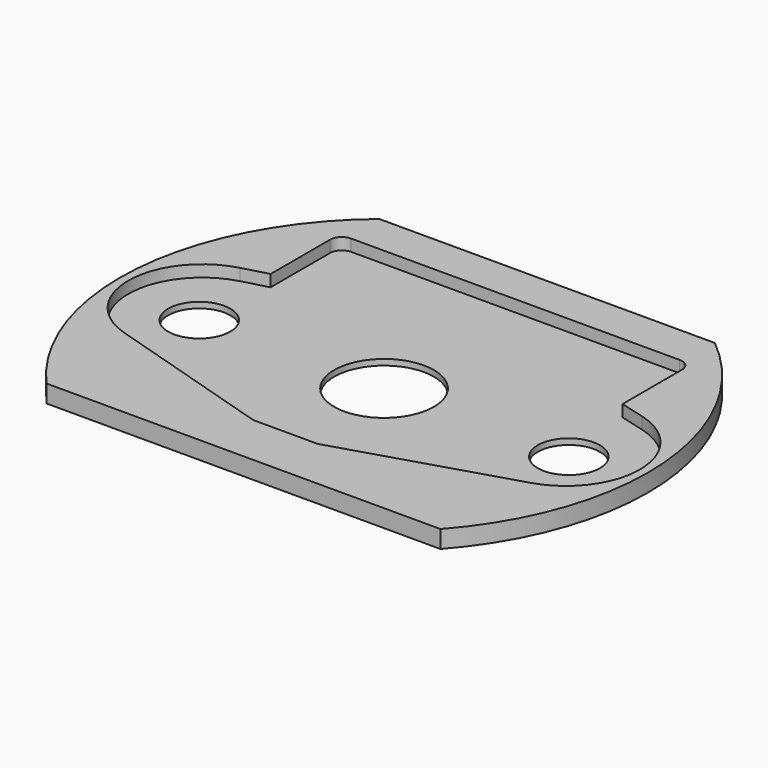
from build123d import *

# Parameters (mm, degrees)
SKETCH_R        = 22.5
PAD_DEPTH       = 1
SKETCH001_R     = 22.5
PAD001_DEPTH    = 0.5
SKETCH002_R     = 4.25
SKETCH002_R_2   = 2.65
POCKET_DEPTH    = 1.501
FILLET_R        = 1
FILLET001_R     = 1
POCKET001_DEPTH = 5


with BuildPart() as part:
    # Sketch → Pad (new body)
    with BuildSketch(Plane.XY):
        Circle(SKETCH_R)
        with BuildLine():
            ThreePointArc((17.347253, -6.023093), (21.799021, 0.111063), (17.133775, 6.08447))
            Line((15, 6.657422), (17.133775, 6.08447))
            Line((15, 14), (15, 6.657422))
            Line((-15, 14), (15, 14))
            Line((-15, 14), (-15, 6.657422))
            Line((-17.133775, 6.08447), (-15, 6.657422))
            ThreePointArc((-17.133775, 6.08447), (-21.799021, 0.111063), (-17.347253, -6.023093))
            Line((-17.347253, -6.023093), (-2.75, -10.5))
            Line((-2.75, -10.5), (2.75, -10.5))
            Line((17.347253, -6.023093), (2.75, -10.5))
        make_face(mode=Mode.SUBTRACT)
    extrude(amount=PAD_DEPTH)

    # Sketch001 (on Face12 of Pad) → Pad001 (join)
    with BuildSketch(Plane(origin=(0, 0, 0), x_dir=(1, 0, 0), z_dir=(0, 0, -1))):
        Circle(SKETCH001_R)
    extrude(amount=PAD001_DEPTH)

    # Sketch002 (on Face4 of Pad001) → Pocket (cut, through all)
    with BuildSketch(Plane(origin=(0, 0, -0.5), x_dir=(1, 0, 0), z_dir=(0, 0, -1))):
        Circle(SKETCH002_R)
        with Locations((-15.75, 0)):
            Circle(SKETCH002_R_2)
        with Locations((15.75, 0)):
            Circle(SKETCH002_R_2)
    extrude(amount=-POCKET_DEPTH, mode=Mode.SUBTRACT)

    # Fillet
    fillet_edges = [part.edges().sort_by_distance(p)[0] for p in [
        (15, 14, 0.5),
        (-15, 14, 0.5),
    ]]
    fillet(fillet_edges, radius=FILLET_R)

    # Fillet001
    fillet001_edges = [part.edges().sort_by_distance(p)[0] for p in [
        (-2.75, -10.5, 0.5),
        (2.75, -10.5, 0.5),
    ]]
    fillet(fillet001_edges, radius=FILLET001_R)

    # Sketch003 (on Face1 of Fillet001) → Pocket001 (cut)
    with BuildSketch(Plane.XY.offset(1)):
        with BuildLine():
            Line((-14.299143, 17.371946), (14.299143, 17.371946))
            ThreePointArc((14.299143, 17.371946), (0, 22.5), (-14.299143, 17.371946))
        make_face()
        with BuildLine():
            Line((16.788655, -14.979688), (-16.788655, -14.979688))
            ThreePointArc((-16.788655, -14.979688), (0, -22.5), (16.788655, -14.979688))
        make_face()
    extrude(amount=-POCKET001_DEPTH, mode=Mode.SUBTRACT)


solid = part.part
